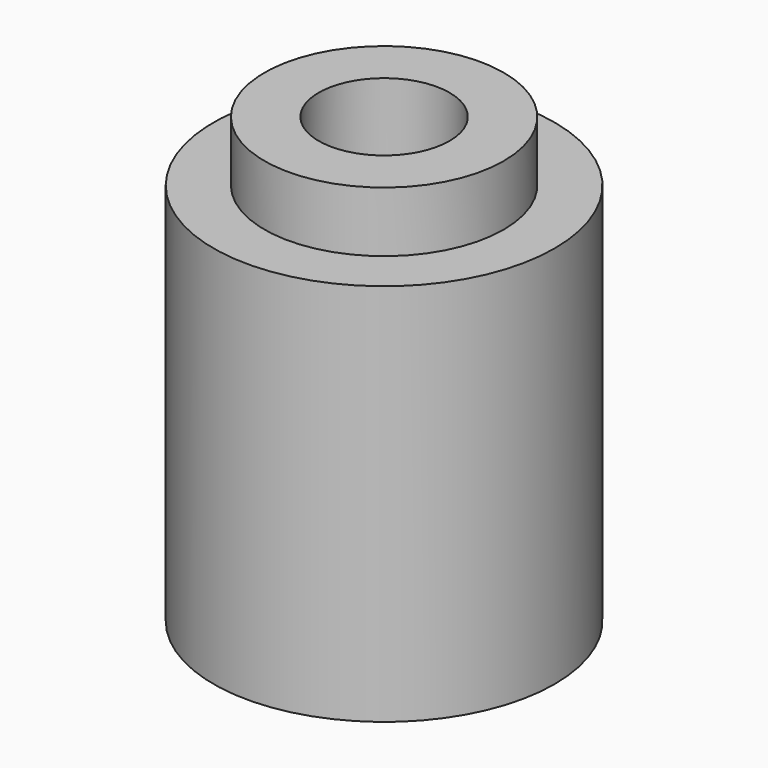
from build123d import *

# Parameters (mm, degrees)
F0_R     = 15.25
F0_R_2   = 10.7
F1_DEPTH = 34.3
F0_R_3   = 5.85
F2_DEPTH = 39.7
F3_DEPTH = 25.4


with BuildPart() as f1:
    # F0 (on Top) → F1 (new body)
    with BuildSketch(Plane.XY):
        Circle(F0_R)
        Circle(F0_R_2, mode=Mode.SUBTRACT)
    extrude(amount=F1_DEPTH)

    # F0 (on Top) → F2 (join)
    with BuildSketch(Plane.XY):
        Circle(F0_R_2)
        Circle(F0_R_3, mode=Mode.SUBTRACT)
    extrude(amount=F2_DEPTH)

    # F0 (on Top) → F3 (join)
    with BuildSketch(Plane.XY):
        Circle(F0_R_3)
    extrude(amount=F3_DEPTH)


solid = f1.part
